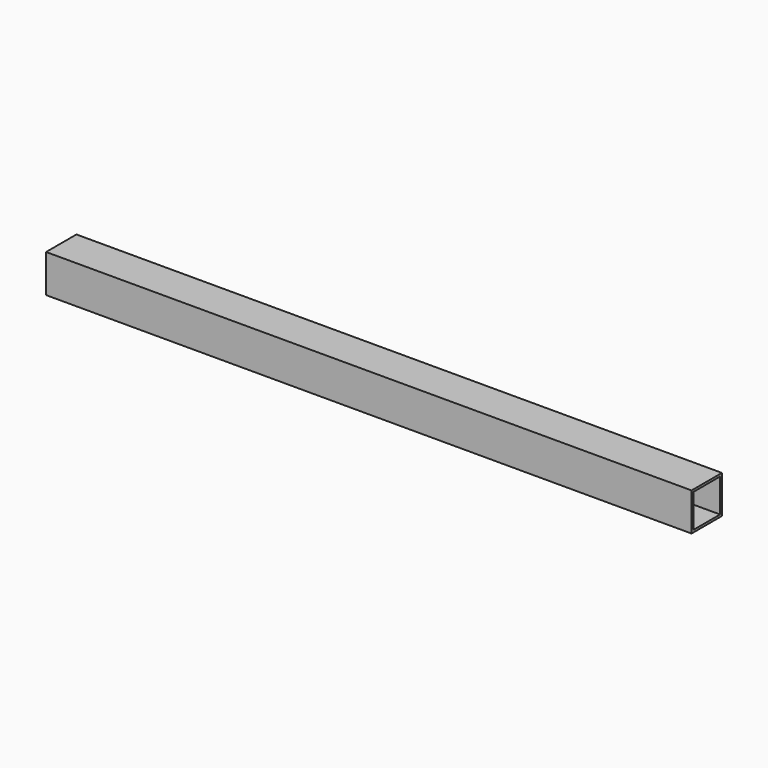
from build123d import *

# Parameters (mm, degrees)
F0_W     = 25
F0_H     = 25
F1_DEPTH = 425
F3_W     = 22
F3_H     = 22
F4_DEPTH = 425.001


with BuildPart() as f1:
    # F0 (on Right) → F1 (new body)
    with BuildSketch(Plane.YZ):
        Rectangle(F0_W, F0_H)
    extrude(amount=F1_DEPTH)

    # F3 (on Right) → F4 (cut, through all)
    with BuildSketch(Plane.YZ):
        Rectangle(F3_W, F3_H)
    extrude(amount=F4_DEPTH, mode=Mode.SUBTRACT)


solid = f1.part
